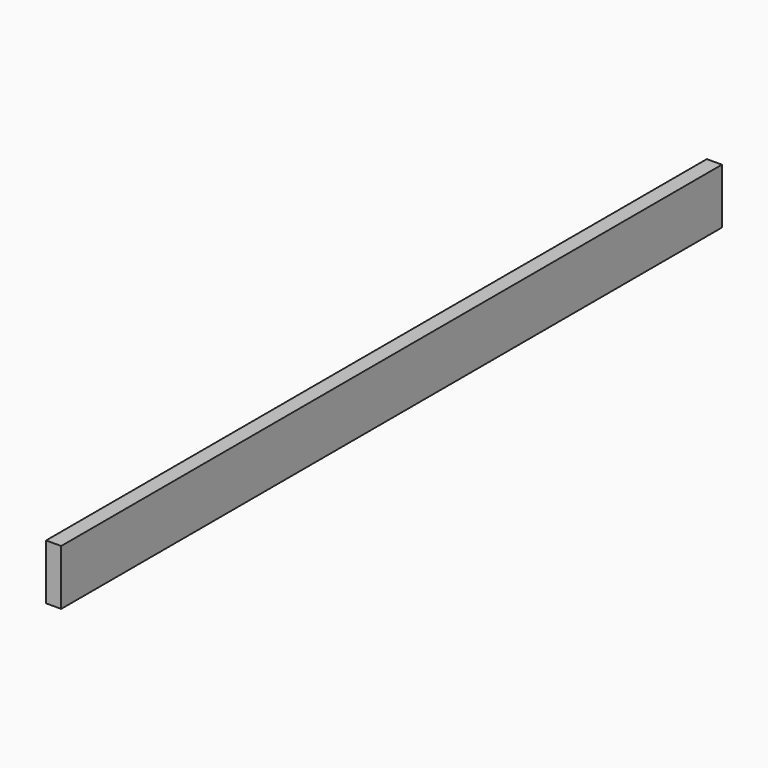
from build123d import *

# Parameters (mm, degrees)
F0_W     = 38.1
F0_H     = 139.7
F1_DEPTH = 1041.4


with BuildPart() as f1:
    # F0 (on Front) → F1 (new body, symmetric)
    with BuildSketch(Plane.XZ):
        Rectangle(F0_W, F0_H)
    extrude(amount=F1_DEPTH, both=True)


with BuildPart() as f2_1:
    # F2: copy of F1
    add(f1.part.moved(Location((127, 0, 0))))


solid = f1.part
